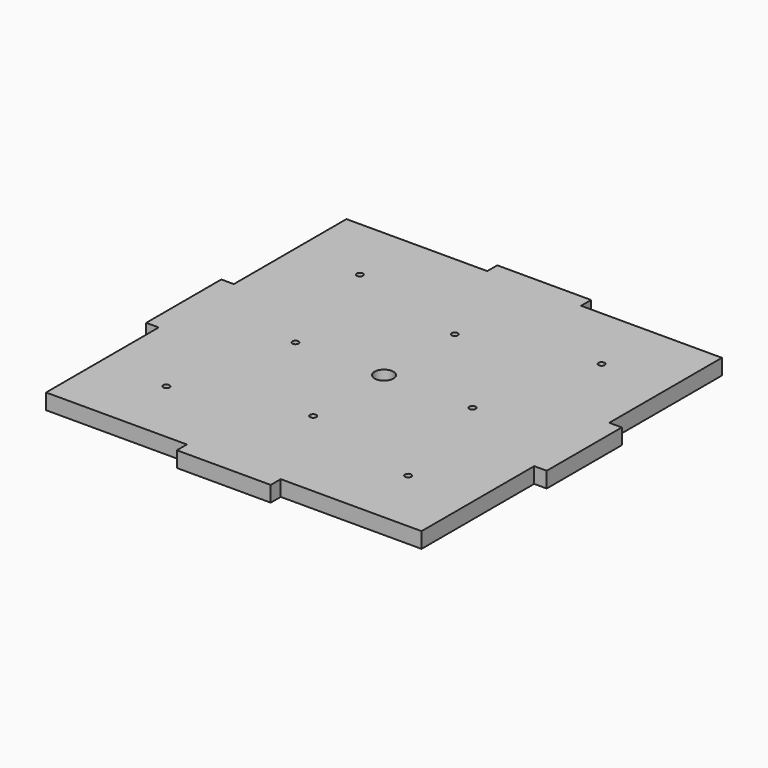
from build123d import *

# Parameters (mm, degrees)
F0_R     = 0.635
F0_R_2   = 1.905
F1_DEPTH = 3.175


with BuildPart() as f1:
    # F0 (on Top) → F1 (new body)
    with BuildSketch(Plane.XY):
        Polygon((-9.525, 38.1), (-38.1, 38.1), (-38.1, 9.525), (-40.64, 9.525), (-40.64, -9.525), (-38.1, -9.525), (-38.1, -38.1), (-9.525, -38.1), (-9.525, -40.64), (9.525, -40.64), (9.525, -38.1), (38.1, -38.1), (38.1, -9.525), (40.64, -9.525), (40.64, 9.525), (38.1, 9.525), (38.1, 38.1), (9.525, 38.1), (9.525, 40.64), (-9.525, 40.64), align=None)
        with Locations((-24.534516, -24.534516)):
            Circle(F0_R, mode=Mode.SUBTRACT)
        with Locations((0, -17.960512)):
            Circle(F0_R, mode=Mode.SUBTRACT)
        with Locations((-17.960512, 0)):
            Circle(F0_R, mode=Mode.SUBTRACT)
        Circle(F0_R_2, mode=Mode.SUBTRACT)
        with Locations((24.534516, -24.534516)):
            Circle(F0_R, mode=Mode.SUBTRACT)
        with Locations((17.960512, 0)):
            Circle(F0_R, mode=Mode.SUBTRACT)
        with Locations((0, 17.960512)):
            Circle(F0_R, mode=Mode.SUBTRACT)
        with Locations((-24.534516, 24.534516)):
            Circle(F0_R, mode=Mode.SUBTRACT)
        with Locations((24.534516, 24.534516)):
            Circle(F0_R, mode=Mode.SUBTRACT)
    extrude(amount=F1_DEPTH)


solid = f1.part
